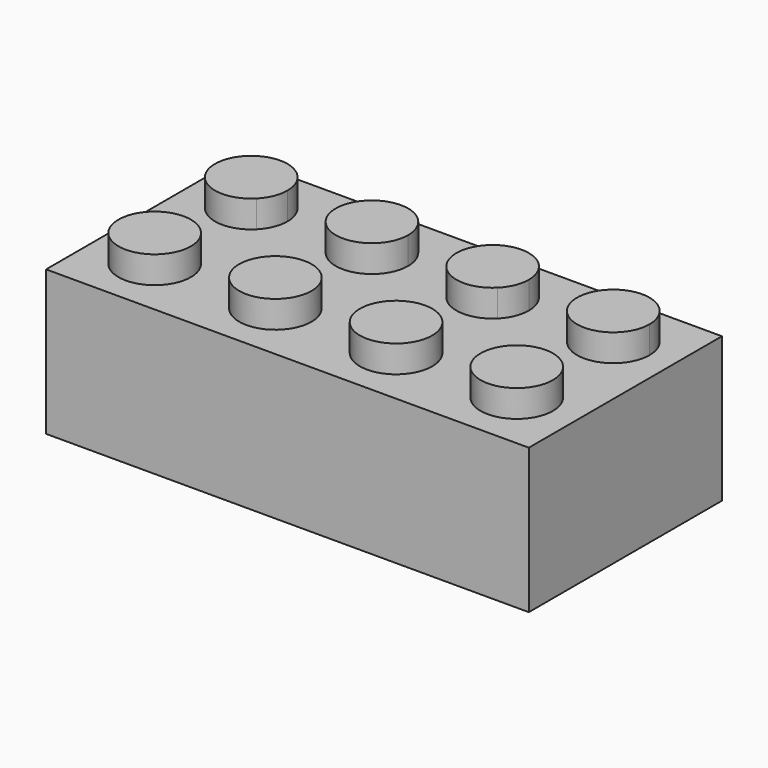
from build123d import *

# Parameters (mm, degrees)
F0_W     = 32
F0_H     = 16
F1_DEPTH = 9.6
F2_R     = 2.4
F3_DEPTH = 1.8


with BuildPart() as f1:
    # F0 (on Top) → F1 (new body)
    with BuildSketch(Plane.XY):
        with Locations((-16, 8)):
            Rectangle(F0_W, F0_H)
    extrude(amount=F1_DEPTH)

    # F2 (on face) → F3 (join)
    with BuildSketch(Plane.XY.offset(9.6)):
        with BuildLine():
            ThreePointArc((-29.6970562748, 13.6970562748), (-29.6970562748, 10.3029437252), (-26.3029437252, 10.3029437252))
            Line((-26.3029437252, 10.3029437252), (-29.6970562748, 13.6970562748))
        make_face()
        with BuildLine():
            Line((-29.6970562748, 13.6970562748), (-26.3029437252, 10.3029437252))
            ThreePointArc((-26.3029437252, 10.3029437252), (-25.782689122, 11.0815597623), (-25.6, 12))
            ThreePointArc((-25.6, 12), (-27.0815597623, 14.217310878), (-29.6970562748, 13.6970562748))
        make_face()
        with BuildLine():
            ThreePointArc((-18.3029437252, 13.6970562748), (-21.6970562748, 13.6970562748), (-21.6970562748, 10.3029437252))
            Line((-21.6970562748, 10.3029437252), (-18.3029437252, 13.6970562748))
        make_face()
        with BuildLine():
            Line((-18.3029437252, 13.6970562748), (-21.6970562748, 10.3029437252))
            ThreePointArc((-21.6970562748, 10.3029437252), (-19.0815597623, 9.782689122), (-17.6, 12))
            ThreePointArc((-17.6, 12), (-17.782689122, 12.9184402377), (-18.3029437252, 13.6970562748))
        make_face()
        with BuildLine():
            ThreePointArc((-13.6970562748, 13.6970562748), (-13.6970562748, 10.3029437252), (-10.3029437252, 10.3029437252))
            Line((-10.3029437252, 10.3029437252), (-13.6970562748, 13.6970562748))
        make_face()
        with BuildLine():
            Line((-13.6970562748, 13.6970562748), (-10.3029437252, 10.3029437252))
            ThreePointArc((-10.3029437252, 10.3029437252), (-9.782689122, 11.0815597623), (-9.6, 12))
            ThreePointArc((-9.6, 12), (-11.0815597623, 14.217310878), (-13.6970562748, 13.6970562748))
        make_face()
        with BuildLine():
            ThreePointArc((-2.3029437252, 13.6970562748), (-5.6970562748, 13.6970562748), (-5.6970562748, 10.3029437252))
            Line((-5.6970562748, 10.3029437252), (-2.3029437252, 13.6970562748))
        make_face()
        with BuildLine():
            Line((-2.3029437252, 13.6970562748), (-5.6970562748, 10.3029437252))
            ThreePointArc((-5.6970562748, 10.3029437252), (-3.0815597623, 9.782689122), (-1.6, 12))
            ThreePointArc((-1.6, 12), (-1.782689122, 12.9184402377), (-2.3029437252, 13.6970562748))
        make_face()
        with Locations((-4, 4)):
            Circle(F2_R)
        with Locations((-12, 4)):
            Circle(F2_R)
        with Locations((-20, 4)):
            Circle(F2_R)
        with Locations((-28, 4)):
            Circle(F2_R)
    extrude(amount=F3_DEPTH)


solid = f1.part
